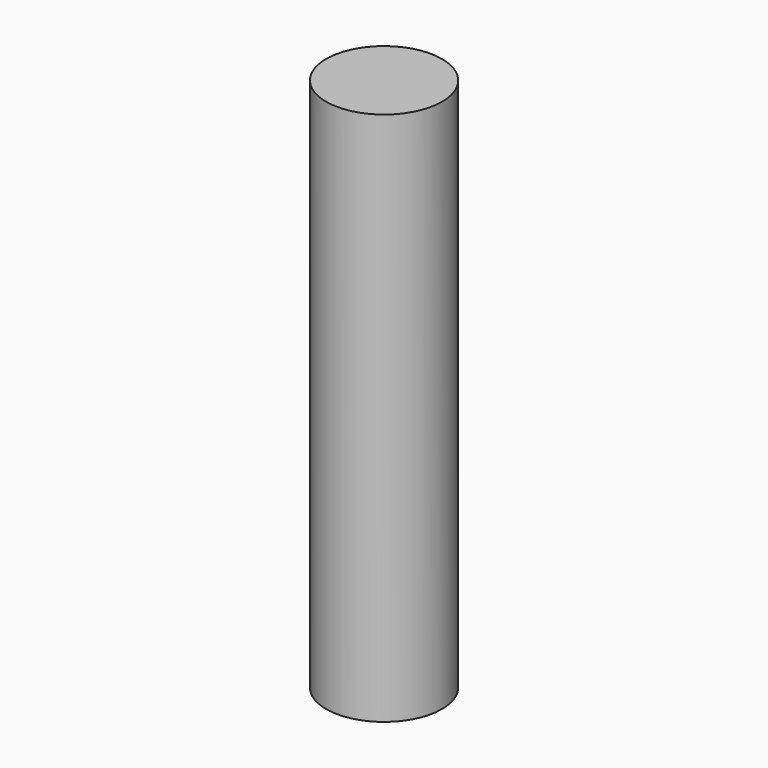
from build123d import *

# Parameters (mm, degrees)
CYLINDER_R     = 1.6256
CYLINDER_DEPTH = 15


with BuildPart() as part:
    # Cylinder → Cylinder (new body)
    with BuildSketch(Plane.XY.offset(-2.5)):
        Circle(CYLINDER_R)
    extrude(amount=CYLINDER_DEPTH)


solid = part.part
